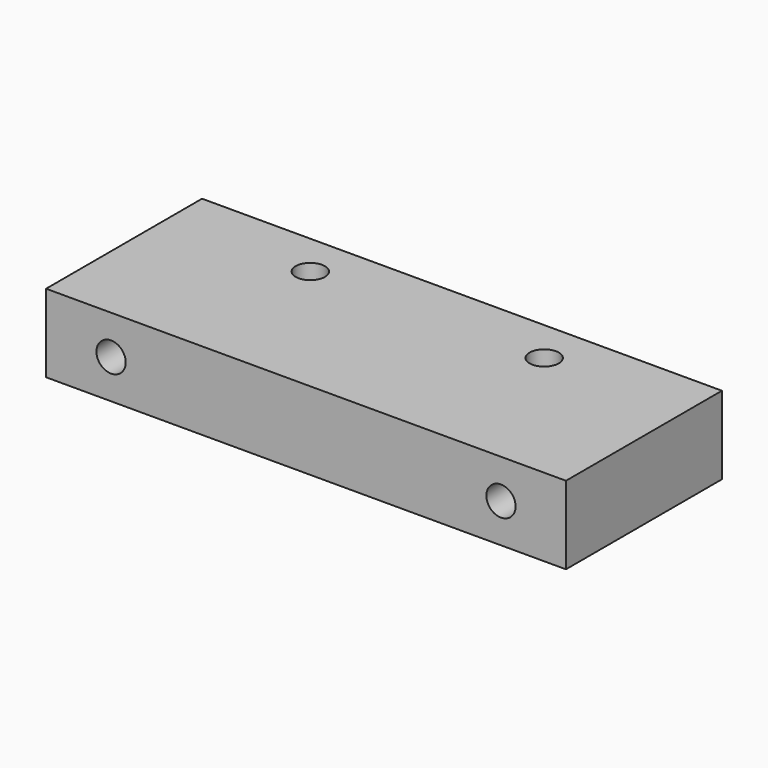
from build123d import *

# Parameters (mm, degrees)
F0_W     = 80
F0_H     = 30
F0_R     = 2.25
F1_DEPTH = 12
F2_R     = 2.25
F3_DEPTH = 30.001


with BuildPart() as f1:
    # F0 (on Top) → F1 (new body)
    with BuildSketch(Plane.XY):
        Rectangle(F0_W, F0_H)
        with Locations((-18, 8.320024)):
            Circle(F0_R, mode=Mode.SUBTRACT)
        with Locations((18, 8.320024)):
            Circle(F0_R, mode=Mode.SUBTRACT)
    extrude(amount=F1_DEPTH)

    # F2 (on face) → F3 (cut, through all)
    with BuildSketch(Plane.XZ.offset(15)):
        with Locations((-30, 6)):
            Circle(F2_R)
        with Locations((30, 6)):
            Circle(F2_R)
    extrude(amount=-F3_DEPTH, mode=Mode.SUBTRACT)


solid = f1.part
